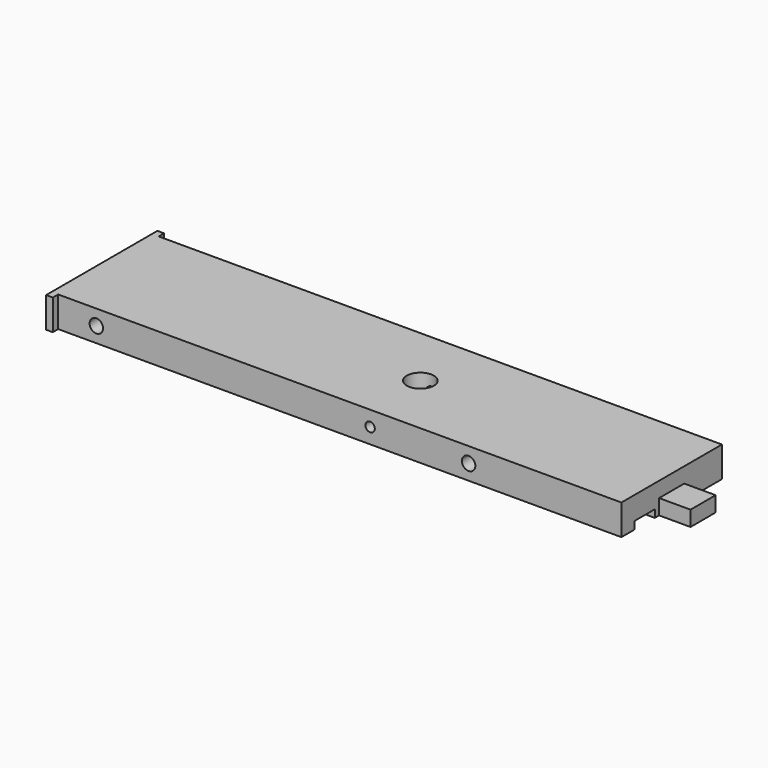
from build123d import *

# Parameters (mm, degrees)
SKETCH007_W     = 127
SKETCH007_H     = 28
PAD003_DEPTH    = 6.8
SKETCH008_W     = 1.5
SKETCH008_H     = 6.8
PAD004_DEPTH    = 1.5
SKETCH010_W     = 1.5
SKETCH010_H     = 6.8
PAD005_DEPTH    = 1.5
SKETCH012_R     = 3.03
POCKET004_DEPTH = 6.801
SKETCH013_R     = 1.05
SKETCH013_R_2   = 1.5
POCKET005_DEPTH = 29.501
SKETCH014_W     = 101
SKETCH014_H     = 5.7
POCKET006_DEPTH = 1.69
SKETCH021_W     = 7
SKETCH021_H     = 3.4
PAD009_DEPTH    = 7


with BuildPart() as part:
    # Sketch007 → Pad003 (new body)
    with BuildSketch(Plane(origin=(0.865, 0, 0), x_dir=(1, 0, 0), z_dir=(0, 0, 1))):
        with Locations((-63.932219, -3.966905)):
            Rectangle(SKETCH007_W, SKETCH007_H)
    extrude(amount=PAD003_DEPTH)

    # Sketch008 → Pad004 (new body)
    with BuildSketch(Plane(origin=(0.865, -17.966905, 0), x_dir=(1, 0, 0), z_dir=(0, -1, 0))):
        with Locations((-126.682219, 3.4)):
            Rectangle(SKETCH008_W, SKETCH008_H)
    extrude(amount=PAD004_DEPTH)

    # Sketch010 → Pad005 (new body)
    with BuildSketch(Plane(origin=(0.865, 10.033095, 0), x_dir=(-1, 0, 0), z_dir=(0, 1, 0))):
        with Locations((126.682219, 3.4)):
            Rectangle(SKETCH010_W, SKETCH010_H)
    extrude(amount=PAD005_DEPTH)

    # Sketch012 → Pocket004 (cut, through all)
    with BuildSketch(Plane(origin=(0.865, 0, 6.8), x_dir=(1, 0, 0), z_dir=(0, 0, 1))):
        with Locations((-56.432219, -3.966905)):
            Circle(SKETCH012_R)
    extrude(amount=-POCKET004_DEPTH, mode=Mode.SUBTRACT)

    # Sketch013 → Pocket005 (cut, through all)
    with BuildSketch(Plane(origin=(0.865, -17.966905, 0), x_dir=(1, 0, 0), z_dir=(0, -1, 0))):
        with Locations((-56.432219, 3.4)):
            Circle(SKETCH013_R)
        with Locations((-117.432219, 3.4)):
            Circle(SKETCH013_R_2)
        with Locations((-34.475986, 3.4)):
            Circle(SKETCH013_R_2)
    extrude(amount=-POCKET005_DEPTH, mode=Mode.SUBTRACT)

    # Sketch014 → Pocket006 (cut)
    with BuildSketch(Plane(origin=(0.865, 0, 0), x_dir=(1, 0, 0), z_dir=(0, 0, -1))):
        with Locations((-50.932219, 11.516905)):
            Rectangle(SKETCH014_W, SKETCH014_H)
    extrude(amount=-POCKET006_DEPTH, mode=Mode.SUBTRACT)

    # Sketch021 → Pad009 (new body)
    with BuildSketch(Plane.YZ.offset(0.432781)):
        with Locations((-3.966905, 1.7)):
            Rectangle(SKETCH021_W, SKETCH021_H)
    extrude(amount=PAD009_DEPTH)


solid = part.part
